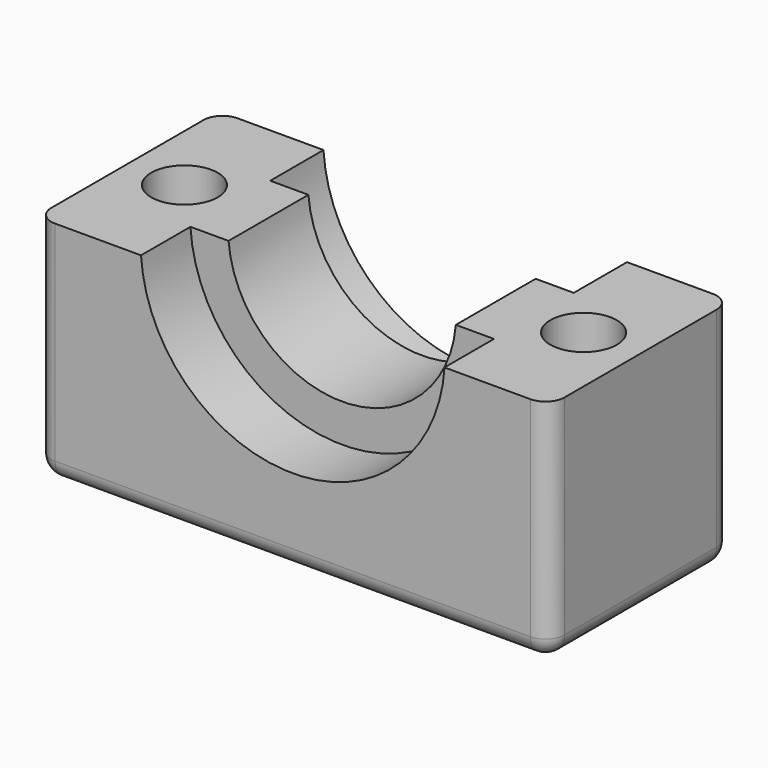
from build123d import *

# Parameters (mm, degrees)
F0_W      = 27
F0_H      = 12
F1_DEPTH  = 12.5
F3_DEPTH  = 3.25
F5_DEPTH  = 3.5
F6_R      = 6
F7_DEPTH  = 25
F8_R      = 1.75
F9_DEPTH  = 25
F10_W     = 12
F10_H     = 0.5
F11_DEPTH = 31
F12_R     = 1


with BuildPart() as f1:
    # F0 (on Top) → F1 (new body)
    with BuildSketch(Plane.XY):
        Rectangle(F0_W, F0_H)
    extrude(amount=-F1_DEPTH)

    # F2 (on face) → F3 (cut)
    with BuildSketch(Plane.XZ.offset(6)):
        with BuildLine():
            Line((8, 0), (-8, 0))
            ThreePointArc((-8, 0), (0, -8), (8, 0))
        make_face()
    extrude(amount=-F3_DEPTH, mode=Mode.SUBTRACT)

    # F4 (on face) → F5 (cut)
    with BuildSketch(Plane(origin=(0, 6, 0), x_dir=(-1, 0, 0), z_dir=(0, 1, 0))):
        with BuildLine():
            Line((8, 0), (-8, 0))
            ThreePointArc((-8, 0), (0, -8), (8, 0))
        make_face()
    extrude(amount=-F5_DEPTH, mode=Mode.SUBTRACT)

    # F6 (on face) → F7 (cut)
    with BuildSketch(Plane(origin=(0, 2.5, 0), x_dir=(-1, 0, 0), z_dir=(0, 1, 0))):
        Circle(F6_R)
    extrude(amount=-F7_DEPTH, mode=Mode.SUBTRACT)

    # F8 (on face) → F9 (cut)
    with BuildSketch(Plane.XY):
        with Locations((10.5, 0)):
            Circle(F8_R)
        with Locations((-10.5, 0)):
            Circle(F8_R)
    extrude(amount=-F9_DEPTH, mode=Mode.SUBTRACT)

    # F10 (on face) → F11 (cut)
    with BuildSketch(Plane(origin=(-13.5, 0, 0), x_dir=(0, -1, 0), z_dir=(-1, 0, 0))):
        with Locations((0, -0.25)):
            Rectangle(F10_W, F10_H)
    extrude(amount=-F11_DEPTH, mode=Mode.SUBTRACT)

    # F12
    f12_edges = [f1.edges().sort_by_distance(p)[0] for p in [
        (-13.5, -6, -6.5),
        (-13.5, 6, -6.5),
        (-13.5, 0, -12.5),
        (0, -6, -12.5),
        (0, 6, -12.5),
        (13.5, -6, -6.5),
        (13.5, 6, -6.5),
        (13.5, 0, -12.5),
    ]]
    fillet(f12_edges, radius=F12_R)


solid = f1.part
